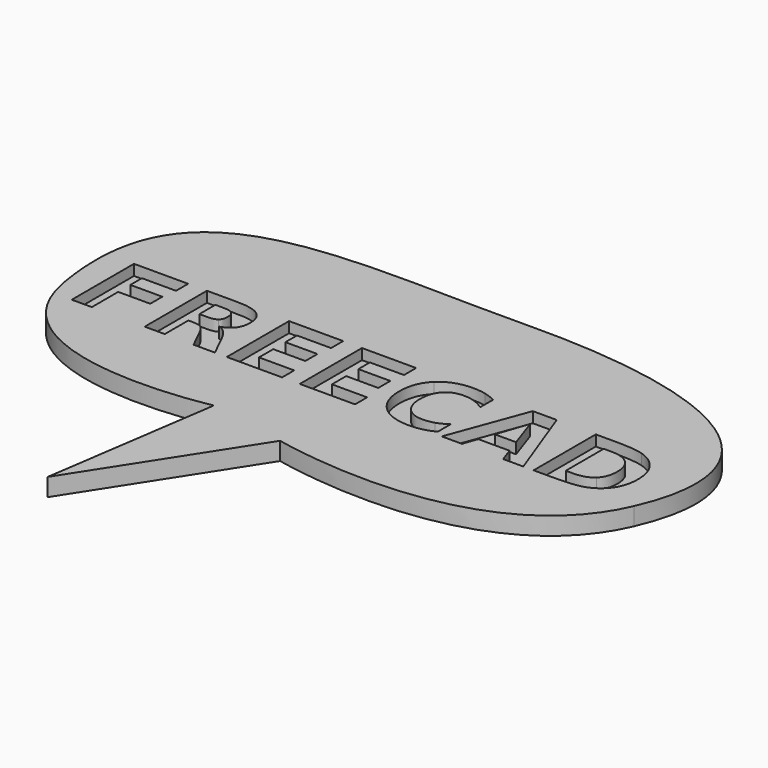
from build123d import *

# Parameters (mm, degrees)
EXTRUDE004_DEPTH = 3
EXTRUDE005_DEPTH = 3
EXTRUDE006_DEPTH = 3
EXTRUDE009_DEPTH = 3
EXTRUDE010_DEPTH = 3
EXTRUDE008_DEPTH = 3
EXTRUDE007_DEPTH = 3
EXTRUDE002_DEPTH = 3
EXTRUDE003_DEPTH = 3
EXTRUDE001_DEPTH = 3
EXTRUDE_DEPTH    = 5


with BuildPart() as extrude004:
    # path3422 → Extrude004 (new body)
    with BuildSketch(Plane(origin=(-17.305371, -1.899325, 0), x_dir=(0, -1, 0), z_dir=(0, 0, -1))):
        with BuildLine():
            add(Edge.make_bspline(
                [(-10.904178, 7.74905), (-10.904178, -7.427695)],
                knots=[0, 0, 53.77587, 53.77587], degree=1))
            add(Edge.make_bspline(
                [(-10.904178, -7.427695), (-6.653522, -7.427695)],
                knots=[0, 0, 15.06138, 15.06138], degree=1))
            add(Edge.make_bspline(
                [(-6.653522, -7.427695), (-6.653522, 2.125329)],
                knots=[0, 0, 33.8493, 33.8493], degree=1))
            add(Edge.make_bspline(
                [(-6.653522, 2.125329), (-2.592756, 2.125329)],
                knots=[0, 0, 14.38854, 14.38854], degree=1))
            add(Edge.make_bspline(
                [(-2.592756, 2.125329), (-2.592756, -6.858018)],
                knots=[0, 0, 31.83076, 31.83076], degree=1))
            add(Edge.make_bspline(
                [(-2.592756, -6.858018), (1.657903, -6.858018)],
                knots=[0, 0, 15.06139, 15.06139], degree=1))
            add(Edge.make_bspline(
                [(1.657903, -6.858018), (1.657903, 2.125329)],
                knots=[0, 0, 31.83076, 31.83076], degree=1))
            add(Edge.make_bspline(
                [(1.657903, 2.125329), (6.653522, 2.125329)],
                knots=[0, 0, 17.70101, 17.70101], degree=1))
            add(Edge.make_bspline(
                [(6.653522, 2.125329), (6.653522, -7.74905)],
                knots=[0, 0, 34.98796, 34.98796], degree=1))
            add(Edge.make_bspline(
                [(6.653522, -7.74905), (10.904178, -7.74905)],
                knots=[0, 0, 15.06138, 15.06138], degree=1))
            add(Edge.make_bspline(
                [(10.904178, -7.74905), (10.904178, 7.74905)],
                knots=[0, 0, 54.91453, 54.91453], degree=1))
            add(Edge.make_bspline(
                [(10.904178, 7.74905), (-10.904178, 7.74905)],
                knots=[0, 0, 77.2737, 77.2737], degree=1))
        make_face()
    extrude(amount=-EXTRUDE004_DEPTH)


with BuildPart() as extrude005:
    # path3424 → Extrude005 (new body)
    with BuildSketch(Plane(origin=(3.144526, -1.899325, 0), x_dir=(0, -1, 0), z_dir=(0, 0, -1))):
        with BuildLine():
            add(Edge.make_bspline(
                [(-10.904178, 7.749052), (-10.904178, -7.427694)],
                knots=[0, 0, 53.77587, 53.77587], degree=1))
            add(Edge.make_bspline(
                [(-10.904178, -7.427694), (-6.653522, -7.427694)],
                knots=[0, 0, 15.06138, 15.06138], degree=1))
            add(Edge.make_bspline(
                [(-6.653522, -7.427694), (-6.653522, 2.125328)],
                knots=[0, 0, 33.84929, 33.84929], degree=1))
            add(Edge.make_bspline(
                [(-6.653522, 2.125328), (-2.592756, 2.125328)],
                knots=[0, 0, 14.38854, 14.38854], degree=1))
            add(Edge.make_bspline(
                [(-2.592756, 2.125328), (-2.592756, -6.85802)],
                knots=[0, 0, 31.83076, 31.83076], degree=1))
            add(Edge.make_bspline(
                [(-2.592756, -6.85802), (1.657903, -6.85802)],
                knots=[0, 0, 15.06139, 15.06139], degree=1))
            add(Edge.make_bspline(
                [(1.657903, -6.85802), (1.657903, 2.125328)],
                knots=[0, 0, 31.83076, 31.83076], degree=1))
            add(Edge.make_bspline(
                [(1.657903, 2.125328), (6.653522, 2.125328)],
                knots=[0, 0, 17.70101, 17.70101], degree=1))
            add(Edge.make_bspline(
                [(6.653522, 2.125328), (6.653522, -7.749052)],
                knots=[0, 0, 34.98796, 34.98796], degree=1))
            add(Edge.make_bspline(
                [(6.653522, -7.749052), (10.904178, -7.749052)],
                knots=[0, 0, 15.06138, 15.06138], degree=1))
            add(Edge.make_bspline(
                [(10.904178, -7.749052), (10.904178, 7.749052)],
                knots=[0, 0, 54.91454, 54.91454], degree=1))
            add(Edge.make_bspline(
                [(10.904178, 7.749052), (-10.904178, 7.749052)],
                knots=[0, 0, 77.2737, 77.2737], degree=1))
        make_face()
    extrude(amount=-EXTRUDE005_DEPTH)


with BuildPart() as extrude006:
    # path3426 → Extrude006 (new body)
    with BuildSketch(Plane(origin=(23.864657, -1.913931, 0), x_dir=(0, -1, 0), z_dir=(0, 0, -1))):
        with BuildLine():
            add(Edge.make_bspline(
                [(9.691792, -9.27549), (10.49518, -7.72714), (10.904179, -6.047328)],
                knots=[0, 0, 0, 1, 1, 1], degree=2))
            add(Edge.make_bspline(
                [(10.904179, -6.047328), (11.313176, -4.367513), (11.313176, -2.541631)],
                knots=[0, 0, 0, 1, 1, 1], degree=2))
            add(Edge.make_bspline(
                [(11.313176, -2.541631), (11.313176, 2.906807), (8.274907, 6.091149)],
                knots=[0, 0, 0, 1, 1, 1], degree=2))
            add(Edge.make_bspline(
                [(8.274907, 6.091149), (5.222027, 9.27549), (0.007305, 9.27549)],
                knots=[0, 0, 0, 1, 1, 1], degree=2))
            add(Edge.make_bspline(
                [(0.007305, 9.27549), (-5.222027, 9.27549), (-8.260299, 6.091149)],
                knots=[0, 0, 0, 1, 1, 1], degree=2))
            add(Edge.make_bspline(
                [(-8.260299, 6.091149), (-11.313176, 2.906807), (-11.313176, -2.541631)],
                knots=[0, 0, 0, 1, 1, 1], degree=2))
            add(Edge.make_bspline(
                [(-11.313176, -2.541631), (-11.313176, -4.367513), (-10.904176, -6.047328)],
                knots=[0, 0, 0, 1, 1, 1], degree=2))
            add(Edge.make_bspline(
                [(-10.904176, -6.047328), (-10.49518, -7.72714), (-9.691789, -9.27549)],
                knots=[0, 0, 0, 1, 1, 1], degree=2))
            add(Edge.make_bspline(
                [(-9.691789, -9.27549), (-5.178206, -9.27549)],
                knots=[0, 0, 15.99301, 15.99301], degree=1))
            add(Edge.make_bspline(
                [(-5.178206, -9.27549), (-6.244521, -7.712532), (-6.741161, -6.193398)],
                knots=[0, 0, 0, 1, 1, 1], degree=2))
            add(Edge.make_bspline(
                [(-6.741161, -6.193398), (-7.237802, -4.674263), (-7.237802, -2.994451)],
                knots=[0, 0, 0, 1, 1, 1], degree=2))
            add(Edge.make_bspline(
                [(-7.237802, -2.994451), (-7.237802, 0.014608), (-5.309668, 1.738241)],
                knots=[0, 0, 0, 1, 1, 1], degree=2))
            add(Edge.make_bspline(
                [(-5.309668, 1.738241), (-3.381537, 3.461876), (0.007305, 3.461876)],
                knots=[0, 0, 0, 1, 1, 1], degree=2))
            add(Edge.make_bspline(
                [(0.007305, 3.461876), (3.381537, 3.461876), (5.309671, 1.738241)],
                knots=[0, 0, 0, 1, 1, 1], degree=2))
            add(Edge.make_bspline(
                [(5.309671, 1.738241), (7.237805, 0.014608), (7.237805, -2.994451)],
                knots=[0, 0, 0, 1, 1, 1], degree=2))
            add(Edge.make_bspline(
                [(7.237805, -2.994451), (7.237805, -4.674263), (6.741164, -6.193398)],
                knots=[0, 0, 0, 1, 1, 1], degree=2))
            add(Edge.make_bspline(
                [(6.741164, -6.193398), (6.244524, -7.712532), (5.178206, -9.27549)],
                knots=[0, 0, 0, 1, 1, 1], degree=2))
            add(Edge.make_bspline(
                [(5.178206, -9.27549), (9.691792, -9.27549)],
                knots=[0, 0, 15.99302, 15.99302], degree=1))
        make_face()
    extrude(amount=-EXTRUDE006_DEPTH)


with BuildPart() as extrude009:
    # path3430 → Extrude009 (new body)
    with BuildSketch(Plane(origin=(71.125828, -1.899325, 0), x_dir=(0, 1, 0), z_dir=(0, 0, 1))):
        with BuildLine():
            add(Edge.make_bspline(
                [(6.653522, 4.550102), (-6.653522, 4.550102)],
                knots=[0, 0, 47.15094, 47.15094], degree=1))
            add(Edge.make_bspline(
                [(-6.653522, 4.550102), (-6.653522, 2.534327)],
                knots=[0, 0, 7.14251, 7.14251], degree=1))
            add(Edge.make_bspline(
                [(-6.653522, 2.534327), (-6.653522, -0.912941), (-4.944494, -2.724218)],
                knots=[0, 0, 0, 1, 1, 1], degree=2))
            add(Edge.make_bspline(
                [(-4.944494, -2.724218), (-3.235466, -4.550102), (0.021912, -4.550102)],
                knots=[0, 0, 0, 1, 1, 1], degree=2))
            add(Edge.make_bspline(
                [(0.021912, -4.550102), (3.264679, -4.550102), (4.959102, -2.738826)],
                knots=[0, 0, 0, 1, 1, 1], degree=2))
            add(Edge.make_bspline(
                [(4.959102, -2.738826), (6.653522, -0.927549), (6.653522, 2.534327)],
                knots=[0, 0, 0, 1, 1, 1], degree=2))
            add(Edge.make_bspline(
                [(6.653522, 2.534327), (6.653522, 4.550102)],
                knots=[0, 0, 7.14251, 7.14251], degree=1))
        make_face()
    extrude(amount=EXTRUDE009_DEPTH)


with BuildPart() as cut002:
    # path3430001 → Extrude010 (new body)
    with BuildSketch(Plane(origin=(71.213469, -1.899325, 0), x_dir=(0, -1, 0), z_dir=(0, 0, -1))):
        with BuildLine():
            add(Edge.make_bspline(
                [(-10.904178, 10.261467), (-10.904178, 4.330996)],
                knots=[0, 0, 21.01348, 21.01348], degree=1))
            add(Edge.make_bspline(
                [(-10.904178, 4.330996), (-10.904178, -0.635409), (-10.188431, -3.060181)],
                knots=[0, 0, 0, 1, 1, 1], degree=2))
            add(Edge.make_bspline(
                [(-10.188431, -3.060181), (-9.487292, -5.499563), (-7.792872, -7.237803)],
                knots=[0, 0, 0, 1, 1, 1], degree=2))
            add(Edge.make_bspline(
                [(-7.792872, -7.237803), (-6.317559, -8.771546), (-4.389425, -9.516508)],
                knots=[0, 0, 0, 1, 1, 1], degree=2))
            add(Edge.make_bspline(
                [(-4.389425, -9.516508), (-2.461291, -10.261467), (-0.021912, -10.261467)],
                knots=[0, 0, 0, 1, 1, 1], degree=2))
            add(Edge.make_bspline(
                [(-0.021912, -10.261467), (2.446683, -10.261467), (4.389425, -9.516508)],
                knots=[0, 0, 0, 1, 1, 1], degree=2))
            add(Edge.make_bspline(
                [(4.389425, -9.516508), (6.317559, -8.771546), (7.792872, -7.237803)],
                knots=[0, 0, 0, 1, 1, 1], degree=2))
            add(Edge.make_bspline(
                [(7.792872, -7.237803), (9.487292, -5.484955), (10.203039, -3.030968)],
                knots=[0, 0, 0, 1, 1, 1], degree=2))
            add(Edge.make_bspline(
                [(10.203039, -3.030968), (10.904178, -0.576981), (10.904178, 4.330996)],
                knots=[0, 0, 0, 1, 1, 1], degree=2))
            add(Edge.make_bspline(
                [(10.904178, 4.330996), (10.904178, 10.261467)],
                knots=[0, 0, 21.01348, 21.01348], degree=1))
            add(Edge.make_bspline(
                [(10.904178, 10.261467), (-10.904178, 10.261467)],
                knots=[0, 0, 77.2737, 77.2737], degree=1))
        make_face()
    extrude(amount=-EXTRUDE010_DEPTH)

    # Cut002: cut Extrude009
    add(extrude009.part, mode=Mode.SUBTRACT)


with BuildPart() as extrude008:
    # path3428001 → Extrude008 (new body)
    with BuildSketch(Plane(origin=(46.644381, -0.445921, 0), x_dir=(0, 1, 0), z_dir=(0, 0, 1))):
        with BuildLine():
            add(Edge.make_bspline(
                [(-4.338299, 2.987146), (-4.338299, -2.987146)],
                knots=[0, 0, 21.16875, 21.16875], degree=1))
            add(Edge.make_bspline(
                [(-4.338299, -2.987146), (4.338299, -0.007303)],
                knots=[0, 0, 32.506403, 32.506403], degree=1))
            add(Edge.make_bspline(
                [(4.338299, -0.007303), (-4.338299, 2.987146)],
                knots=[0, 0, 32.523249, 32.523249], degree=1))
        make_face()
    extrude(amount=EXTRUDE008_DEPTH)


with BuildPart() as cut001:
    # path3428 → Extrude007 (new body)
    with BuildSketch(Plane(origin=(46.644381, -1.899325, 0), x_dir=(0, -1, 0), z_dir=(0, 0, -1))):
        with BuildLine():
            add(Edge.make_bspline(
                [(6.931056, -4.404031), (6.931056, 4.389426)],
                knots=[0, 0, 31.15792, 31.15792], degree=1))
            add(Edge.make_bspline(
                [(6.931056, 4.389426), (10.904178, 5.777099)],
                knots=[0, 0, 14.911948, 14.911948], degree=1))
            add(Edge.make_bspline(
                [(10.904178, 5.777099), (10.904178, 11.430032)],
                knots=[0, 0, 20.03008, 20.03008], degree=1))
            add(Edge.make_bspline(
                [(10.904178, 11.430032), (-10.904178, 3.352324)],
                knots=[0, 0, 82.404078, 82.404078], degree=1))
            add(Edge.make_bspline(
                [(-10.904178, 3.352324), (-10.904178, -3.352322)],
                knots=[0, 0, 23.75662, 23.75662], degree=1))
            add(Edge.make_bspline(
                [(-10.904178, -3.352322), (10.904178, -11.430032)],
                knots=[0, 0, 82.404082, 82.404082], degree=1))
            add(Edge.make_bspline(
                [(10.904178, -11.430032), (10.904178, -5.777096)],
                knots=[0, 0, 20.03009, 20.03009], degree=1))
            add(Edge.make_bspline(
                [(10.904178, -5.777096), (6.931056, -4.404031)],
                knots=[0, 0, 14.894961, 14.894961], degree=1))
        make_face()
    extrude(amount=-EXTRUDE007_DEPTH)

    # Cut001: cut Extrude008
    add(extrude008.part, mode=Mode.SUBTRACT)


with BuildPart() as extrude002:
    # path3420 → Extrude002 (new body)
    with BuildSketch(Plane(origin=(-39.617673, 2.132226, 0), x_dir=(0, 1, 0), z_dir=(0, 0, 1))):
        with BuildLine():
            add(Edge.make_bspline(
                [(-2.797254, 0.467428), (-2.797254, -1.300028), (-2.139933, -2.059596)],
                knots=[0, 0, 0, 1, 1, 1], degree=2))
            add(Edge.make_bspline(
                [(-2.139933, -2.059596), (-1.482615, -2.833771), (0.021912, -2.833771)],
                knots=[0, 0, 0, 1, 1, 1], degree=2))
            add(Edge.make_bspline(
                [(0.021912, -2.833771), (1.511833, -2.833771), (2.154544, -2.059596)],
                knots=[0, 0, 0, 1, 1, 1], degree=2))
            add(Edge.make_bspline(
                [(2.154544, -2.059596), (2.797254, -1.300028), (2.797254, 0.467428)],
                knots=[0, 0, 0, 1, 1, 1], degree=2))
            add(Edge.make_bspline(
                [(2.797254, 0.467428), (2.797254, 2.833771)],
                knots=[0, 0, 8.38468, 8.38468], degree=1))
            add(Edge.make_bspline(
                [(2.797254, 2.833771), (-2.797254, 2.833771)],
                knots=[0, 0, 19.82306, 19.82306], degree=1))
            add(Edge.make_bspline(
                [(-2.797254, 2.833771), (-2.797254, 0.467428)],
                knots=[0, 0, 8.38468, 8.38468], degree=1))
        make_face()
    extrude(amount=EXTRUDE002_DEPTH)


with BuildPart() as cut:
    # path3420001 → Extrude003 (new body)
    with BuildSketch(Plane(origin=(-38.230001, -1.899325, 0), x_dir=(0, -1, 0), z_dir=(0, 0, -1))):
        with BuildLine():
            add(Edge.make_bspline(
                [(2.651184, 4.221442), (10.904178, 4.221442)],
                knots=[0, 0, 29.24289, 29.24289], degree=1))
            add(Edge.make_bspline(
                [(10.904178, 4.221442), (10.904178, 9.845166)],
                knots=[0, 0, 19.92658, 19.92658], degree=1))
            add(Edge.make_bspline(
                [(10.904178, 9.845166), (-10.904178, 9.845166)],
                knots=[0, 0, 77.2737, 77.2737], degree=1))
            add(Edge.make_bspline(
                [(-10.904178, 9.845166), (-10.904178, 1.256206)],
                knots=[0, 0, 30.43332, 30.43332], degree=1))
            add(Edge.make_bspline(
                [(-10.904178, 1.256206), (-10.904178, -3.052878), (-9.458077, -5.054045)],
                knots=[0, 0, 0, 1, 1, 1], degree=2))
            add(Edge.make_bspline(
                [(-9.458077, -5.054045), (-8.011978, -7.069823), (-4.886065, -7.069823)],
                knots=[0, 0, 0, 1, 1, 1], degree=2))
            add(Edge.make_bspline(
                [(-4.886065, -7.069823), (-2.724218, -7.069823), (-1.336548, -6.018114)],
                knots=[0, 0, 0, 1, 1, 1], degree=2))
            add(Edge.make_bspline(
                [(-1.336548, -6.018114), (0.051125, -4.981012), (0.708443, -2.877593)],
                knots=[0, 0, 0, 1, 1, 1], degree=2))
            add(Edge.make_bspline(
                [(0.708443, -2.877593), (0.971369, -4.031551), (1.906222, -4.937191)],
                knots=[0, 0, 0, 1, 1, 1], degree=2))
            add(Edge.make_bspline(
                [(1.906222, -4.937191), (2.826467, -5.857436), (4.71078, -6.792289)],
                knots=[0, 0, 0, 1, 1, 1], degree=2))
            add(Edge.make_bspline(
                [(4.71078, -6.792289), (10.904178, -9.845166)],
                knots=[0, 0, 24.466332, 24.466332], degree=1))
            add(Edge.make_bspline(
                [(10.904178, -9.845166), (10.904178, -3.856266)],
                knots=[0, 0, 21.22051, 21.22051], degree=1))
            add(Edge.make_bspline(
                [(10.904178, -3.856266), (5.484955, -1.197781)],
                knots=[0, 0, 21.388054, 21.388054], degree=1))
            add(Edge.make_bspline(
                [(5.484955, -1.197781), (3.848964, -0.39439), (3.250074, 0.438211)],
                knots=[0, 0, 0, 1, 1, 1], degree=2))
            add(Edge.make_bspline(
                [(3.250074, 0.438211), (2.651184, 1.256206), (2.651184, 2.629271)],
                knots=[0, 0, 0, 1, 1, 1], degree=2))
            add(Edge.make_bspline(
                [(2.651184, 2.629271), (2.651184, 4.221442)],
                knots=[0, 0, 5.64155, 5.64155], degree=1))
        make_face()
    extrude(amount=-EXTRUDE003_DEPTH)

    # Cut: cut Extrude002
    add(extrude002.part, mode=Mode.SUBTRACT)


with BuildPart() as fusion:
    # path3418 → Extrude001 (new body)
    with BuildSketch(Plane(origin=(-60.93669, -1.899325, 0), x_dir=(0, -1, 0), z_dir=(0, 0, -1))):
        with BuildLine():
            add(Edge.make_bspline(
                [(-10.904178, 7.588373), (-10.904178, -7.588373)],
                knots=[0, 0, 53.77587, 53.77587], degree=1))
            add(Edge.make_bspline(
                [(-10.904178, -7.588373), (-6.653522, -7.588373)],
                knots=[0, 0, 15.06138, 15.06138], degree=1))
            add(Edge.make_bspline(
                [(-6.653522, -7.588373), (-6.653522, 1.964652)],
                knots=[0, 0, 33.8493, 33.8493], degree=1))
            add(Edge.make_bspline(
                [(-6.653522, 1.964652), (-2.592756, 1.964652)],
                knots=[0, 0, 14.38854, 14.38854], degree=1))
            add(Edge.make_bspline(
                [(-2.592756, 1.964652), (-2.592756, -7.018696)],
                knots=[0, 0, 31.83076, 31.83076], degree=1))
            add(Edge.make_bspline(
                [(-2.592756, -7.018696), (1.657903, -7.018696)],
                knots=[0, 0, 15.06139, 15.06139], degree=1))
            add(Edge.make_bspline(
                [(1.657903, -7.018696), (1.657903, 1.964652)],
                knots=[0, 0, 31.83076, 31.83076], degree=1))
            add(Edge.make_bspline(
                [(1.657903, 1.964652), (10.904178, 1.964652)],
                knots=[0, 0, 32.76239, 32.76239], degree=1))
            add(Edge.make_bspline(
                [(10.904178, 1.964652), (10.904178, 7.588373)],
                knots=[0, 0, 19.92657, 19.92657], degree=1))
            add(Edge.make_bspline(
                [(10.904178, 7.588373), (-10.904178, 7.588373)],
                knots=[0, 0, 77.2737, 77.2737], degree=1))
        make_face()
    extrude(amount=-EXTRUDE001_DEPTH)

    # Fusion: union Extrude004, Extrude005, Extrude006, Cut002, Cut001, Cut
    add(extrude004.part)
    add(extrude005.part)
    add(extrude006.part)
    add(cut002.part)
    add(cut001.part)
    add(cut.part)


with BuildPart() as fusion_1:
    # Fusion placement: moved
    add(fusion.part.moved(Location((0, 0, 2))))


with BuildPart() as cut003:
    # path3361 → Extrude (new body)
    with BuildSketch(Plane(origin=(7.511547, -16.243282, 0), x_dir=(0, 1, 0), z_dir=(0, 0, 1))):
        with BuildLine():
            add(Edge.make_bspline(
                [(-16.274179, 20.413136), (-65.46148, 27.670277)],
                knots=[0, 0, 176.172452, 176.172452], degree=1))
            add(Edge.make_bspline(
                [(-65.46148, 27.670277), (-20.305924, -1.358294)],
                knots=[0, 0, 190.209335, 190.209335], degree=1))
            add(Edge.make_bspline(
                [(-20.305924, -1.358294), (-20.305924, -1.358294), (-34.820212, -64.253534), (3.884551, -81.186864)],
                knots=[0, 0, 0, 0, 1, 1, 1, 1], degree=3))
            add(Edge.make_bspline(
                [(3.884551, -81.186864), (42.476349, -98.070775), (57.103598, -58.609086), (56.297247, -9.421786)],
                knots=[0, 0, 0, 0, 1, 1, 1, 1], degree=3))
            add(Edge.make_bspline(
                [(56.297247, -9.421786), (55.490899, 39.765517), (65.46148, 92.369648), (8.722647, 82.502025)],
                knots=[0, 0, 0, 0, 1, 1, 1, 1], degree=3))
            add(Edge.make_bspline(
                [(8.722647, 82.502025), (-28.369417, 76.051229), (-16.274179, 20.413136), (-16.274179, 20.413136)],
                knots=[0, 0, 0, 0, 1, 1, 1, 1], degree=3))
        make_face()
    extrude(amount=EXTRUDE_DEPTH)

    # Cut003: cut Fusion
    add(fusion_1.part, mode=Mode.SUBTRACT)


solid = cut003.part
